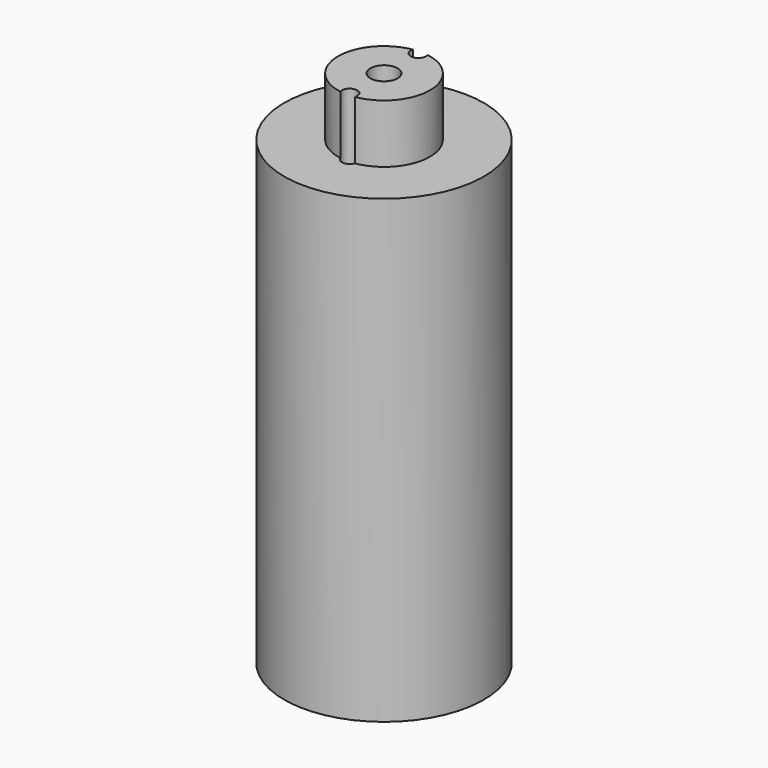
from build123d import *

# Parameters (mm, degrees)
F2_R     = 0.5
F2_R_2   = 0.4953
F3_DEPTH = 25.4


with BuildPart() as f1:
    # F0 (on Right) → F1 (revolve)
    with BuildSketch(Plane.YZ):
        Polygon((5, 0), (6.5, 0), (6.5, 30), (2.9972, 30), (2.9972, 33.81), (0.889, 33.81), (0.889, 26), (5, 26), align=None)
    revolve(axis=Axis((0, 0, -0.007937), (0, 0, -1)))

    # F2 (on face) → F3 (cut)
    with BuildSketch(Plane(origin=(0, 0, 26), x_dir=(1, 0, 0), z_dir=(0, 0, -1))):
        with Locations((0, -2.794)):
            Circle(F2_R)
        with Locations((0, 2.794)):
            Circle(F2_R_2)
    extrude(amount=-F3_DEPTH, mode=Mode.SUBTRACT)


solid = f1.part
